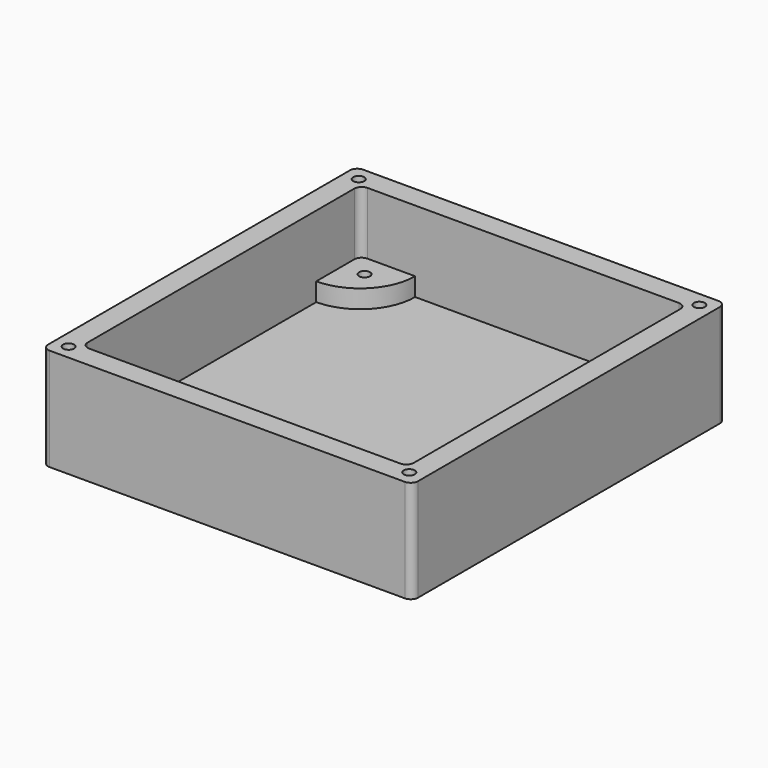
from build123d import *

# Parameters (mm, degrees)
PAD_DEPTH                     = 28
POCKET_DEPTH                  = 22.001
SKETCH004_R                   = 1.5
PAD001_DEPTH                  = 5
SKETCH004_MIRRORED_2_R        = 1.5
PAD001_MIRRORED_2_DEPTH       = 5
SKETCH005_R                   = 1.5
POCKET001_DEPTH               = 5
SKETCH005_MIRRORED002_2_R     = 1.5
POCKET001_MIRRORED002_2_DEPTH = 5


with BuildPart() as part:
    # Sketch001 → Pad (new body)
    with BuildSketch(Plane.XY.offset(-6)):
        with BuildLine():
            Line((-48.5, 53.5), (48.5, 53.5))
            ThreePointArc((50.5, 51.5), (49.914214, 52.914214), (48.5, 53.5))
            Line((50.5, 51.5), (50.5, -51.5))
            ThreePointArc((48.5, -53.5), (49.914214, -52.914214), (50.5, -51.5))
            Line((48.5, -53.5), (-48.5, -53.5))
            ThreePointArc((-50.5, -51.5), (-49.914214, -52.914214), (-48.5, -53.5))
            Line((-50.5, -51.5), (-50.5, 51.5))
            ThreePointArc((-48.5, 53.5), (-49.914214, 52.914214), (-50.5, 51.5))
        make_face()
    extrude(amount=PAD_DEPTH)

    # Sketch002 → Pocket (cut, through all)
    with BuildSketch(Plane.XY):
        with BuildLine():
            Line((42.5, 47.5), (-42.5, 47.5))
            ThreePointArc((-42.5, 47.5), (-43.914214, 46.914214), (-44.5, 45.5))
            Line((-44.5, 45.5), (-44.5, -45.5))
            ThreePointArc((-44.5, -45.5), (-43.914214, -46.914214), (-42.5, -47.5))
            Line((-42.5, -47.5), (42.5, -47.5))
            ThreePointArc((42.5, -47.5), (43.914214, -46.914214), (44.5, -45.5))
            Line((44.5, -45.5), (44.5, 45.5))
            ThreePointArc((44.5, 45.5), (43.914214, 46.914214), (42.5, 47.5))
        make_face()
    extrude(amount=POCKET_DEPTH, mode=Mode.SUBTRACT)

    # Sketch004 → Pad001 (join)
    with BuildSketch(Plane.XY):
        with BuildLine():
            Line((-44.5, 47.5), (-29.5, 47.5))
            ThreePointArc((-44.5, 32.5), (-33.893398, 36.893398), (-29.5, 47.5))
            Line((-44.5, 47.5), (-44.5, 32.5))
        make_face()
        with Locations((-38.5, 41.5)):
            Circle(SKETCH004_R, mode=Mode.SUBTRACT)
    pad001 = extrude(amount=PAD001_DEPTH)

    # Sketch004 Mirrored 2 → Pad001 Mirrored 2 (add)
    with BuildSketch(Plane(origin=(0, 0, 0), x_dir=(-1, 0, 0), z_dir=(0, 0, -1))):
        with BuildLine():
            Line((-44.5, 47.5), (-29.5, 47.5))
            ThreePointArc((-44.5, 32.5), (-33.893398, 36.893398), (-29.5, 47.5))
            Line((-44.5, 47.5), (-44.5, 32.5))
        make_face()
        with Locations((-38.5, 41.5)):
            Circle(SKETCH004_MIRRORED_2_R, mode=Mode.SUBTRACT)
    pad001_mirrored_2 = extrude(amount=-PAD001_MIRRORED_2_DEPTH)

    # Mirrored001: Pad001, Pad001 Mirrored 2 across Sketch004 H_Axis
    add(pad001.mirror(Plane.ZX))
    add(pad001_mirrored_2.mirror(Plane.ZX))

    # Sketch005 → Pocket001 (cut)
    with BuildSketch(Plane.XY.offset(22)):
        with Locations((-46.5, 49.5)):
            Circle(SKETCH005_R)
    pocket001 = extrude(amount=-POCKET001_DEPTH, mode=Mode.SUBTRACT)

    # Sketch005 Mirrored002 2 → Pocket001 Mirrored002 2 (cut)
    with BuildSketch(Plane(origin=(0, 0, 22), x_dir=(-1, 0, 0), z_dir=(0, 0, -1))):
        with Locations((-46.5, 49.5)):
            Circle(SKETCH005_MIRRORED002_2_R)
    pocket001_mirrored002_2 = extrude(amount=POCKET001_MIRRORED002_2_DEPTH, mode=Mode.SUBTRACT)

    # Mirrored003: Pocket001, Pocket001 Mirrored002 2 across Sketch005 H_Axis
    add(pocket001.mirror(Plane(origin=(0, 0, 22), x_dir=(0, 0, 1), z_dir=(0, 1, 0))), mode=Mode.SUBTRACT)
    add(pocket001_mirrored002_2.mirror(Plane(origin=(0, 0, 22), x_dir=(0, 0, 1), z_dir=(0, 1, 0))), mode=Mode.SUBTRACT)


solid = part.part
